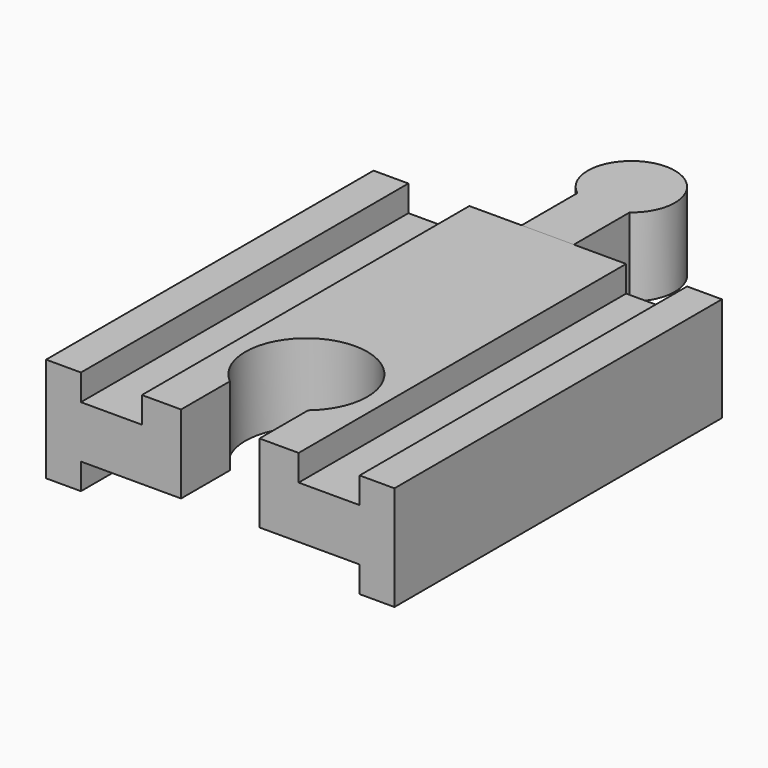
from build123d import *

# Parameters (mm, degrees)
PAD_DEPTH         = 47
POCKET_DEPTH      = 12.001
PAD001_DEPTH      = 6
PAD001_DEPTH_BACK = 3


with BuildPart() as body:
    # Sketch → Pad (new body)
    with BuildSketch(Plane.XZ):
        Polygon((-20, 6), (-20, -6), (-16, -6), (-16, -3), (-9, -3), (9, -3), (16, -3), (16, -6), (20, -6), (20, 6), (16, 6), (16, 3), (9, 3), (9, 6), (-9, 6), (-9, 3), (-16, 3), (-16, 6), align=None)
    extrude(amount=PAD_DEPTH)

    # Sketch002 (on Face14 of Pad) → Pocket (cut, through all)
    with BuildSketch(Plane(origin=(0, 0, 6), x_dir=(-1, 0, 0), z_dir=(0, 0, 1))):
        with BuildLine():
            Line((-4.5, 47), (4.5, 47))
            Line((4.5, 47), (4.5, 40))
            ThreePointArc((-4.5, 40), (0, 27.638097), (4.5, 40))
            Line((-4.5, 47), (-4.5, 40))
        make_face()
    extrude(amount=-POCKET_DEPTH, mode=Mode.SUBTRACT)


with BuildPart() as body001:
    # Sketch001 → Pad001 (new body, two sides)
    with BuildSketch(Plane.XY) as pad001_sk:
        with BuildLine():
            Line((-3, 0), (3, 0))
            Line((3, 0), (3, 8))
            ThreePointArc((3, 8), (0, 17), (-3, 8))
            Line((-3, 0), (-3, 8))
        make_face()
    extrude(amount=PAD001_DEPTH)
    extrude(pad001_sk.sketch, amount=-PAD001_DEPTH_BACK)


solid = Compound([body.part, body001.part])
